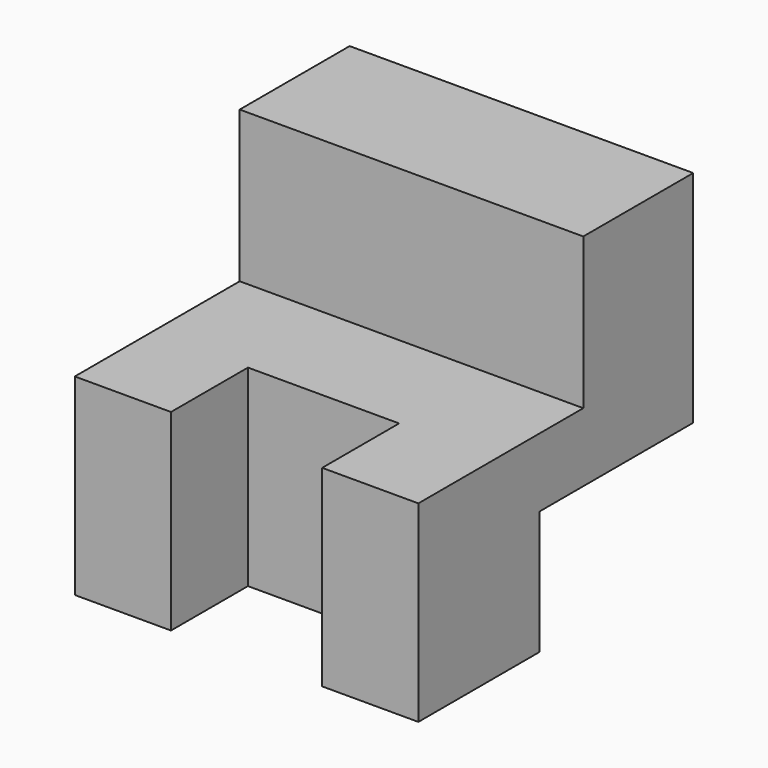
from build123d import *

# Parameters (mm, degrees)
F1_DEPTH = 12.5
F2_W     = 11
F2_H     = 7
F3_DEPTH = 14.001


with BuildPart() as f1:
    # F0 (on Right) → F1 (new body, symmetric)
    with BuildSketch(Plane.YZ):
        Polygon((-11, 14), (-11, 0), (0, 0), (0, 9), (14, 9), (14, 25), (4, 25), (4, 14), align=None)
    extrude(amount=F1_DEPTH, both=True)

    # F2 (on face) → F3 (cut, through all)
    with BuildSketch(Plane.XY.offset(14)):
        with Locations((0, -7.5)):
            Rectangle(F2_W, F2_H)
    extrude(amount=-F3_DEPTH, mode=Mode.SUBTRACT)


solid = f1.part
